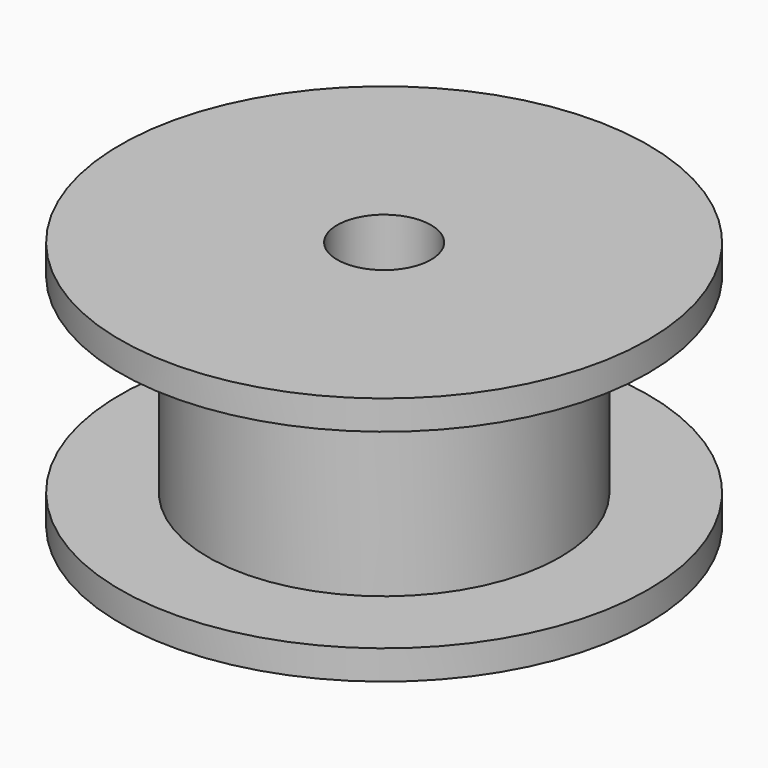
from build123d import *

# Parameters (mm, degrees)
CYLINDER008_R     = 1.6
CYLINDER008_DEPTH = 8.5
CYLINDER006_R     = 9
CYLINDER006_DEPTH = 1
CYLINDER005_R     = 9
CYLINDER005_DEPTH = 1
CYLINDER007_R     = 6
CYLINDER007_DEPTH = 8.5


with BuildPart() as cylinder004:
    # Cylinder008 → Cylinder008 (new body)
    with BuildSketch(Plane.XY):
        Circle(CYLINDER008_R)
    extrude(amount=CYLINDER008_DEPTH)


with BuildPart() as cylinder002:
    # Cylinder006 → Cylinder006 (new body)
    with BuildSketch(Plane.XY.offset(7.5)):
        Circle(CYLINDER006_R)
    extrude(amount=CYLINDER006_DEPTH)


with BuildPart() as cylinder001:
    # Cylinder005 → Cylinder005 (new body)
    with BuildSketch(Plane.XY):
        Circle(CYLINDER005_R)
    extrude(amount=CYLINDER005_DEPTH)


with BuildPart() as idler:
    # Cylinder007 → Cylinder007 (new body)
    with BuildSketch(Plane.XY):
        Circle(CYLINDER007_R)
    extrude(amount=CYLINDER007_DEPTH)

    # Fusion: union Cylinder002, Cylinder001
    add(cylinder002.part)
    add(cylinder001.part)

    # Cut: cut Cylinder004
    add(cylinder004.part, mode=Mode.SUBTRACT)


solid = idler.part
